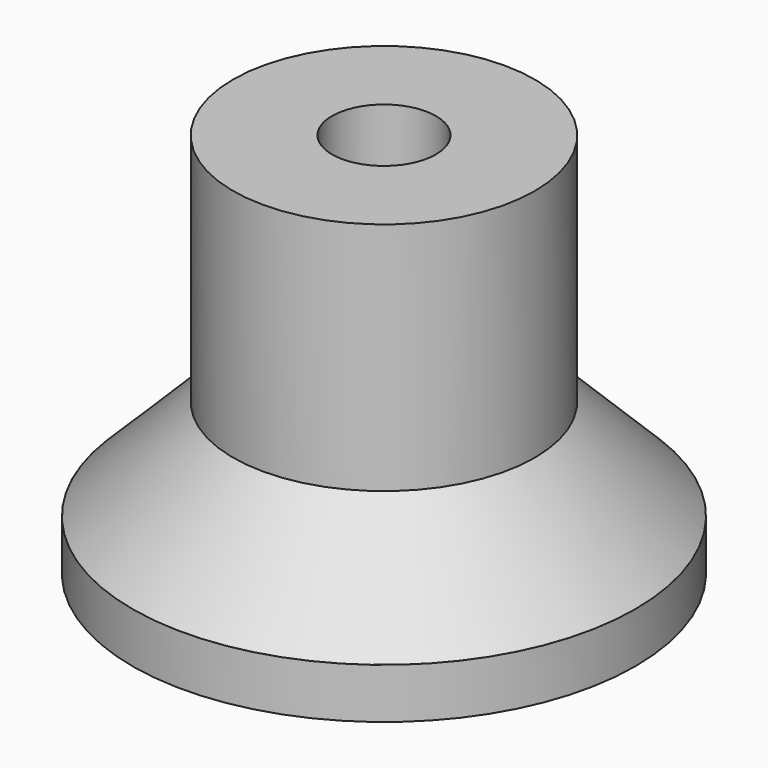
from build123d import *

# Parameters (mm, degrees)
SKETCH_R        = 7.5
PAD_DEPTH       = 1.5
SKETCH001_R     = 4.5
PAD001_DEPTH    = 10
POCKET_DEPTH    = 6
SKETCH003_R     = 1.55
POCKET001_DEPTH = 11.501
POCKET002_DEPTH = 4
CHAMFER_SIZE    = 2.999
SKETCH005_R     = 1.55
PAD002_DEPTH    = 0.3
CHAMFER001_SIZE = 0.495


with BuildPart() as part:
    # Sketch → Pad (new body)
    with BuildSketch(Plane.XY):
        Circle(SKETCH_R)
    extrude(amount=PAD_DEPTH)

    # Sketch001 → Pad001 (new body)
    with BuildSketch(Plane.XY.offset(1.5)):
        Circle(SKETCH001_R)
    extrude(amount=PAD001_DEPTH)

    # Sketch002 → Pocket (cut)
    with BuildSketch(Plane(origin=(0, 0, 0), x_dir=(1, 0, 0), z_dir=(0, 0, -1))):
        Polygon((2.525, 1.457809), (0, 2.915619), (-2.525, 1.457809), (-2.525, -1.457809), (0, -2.915619), (2.525, -1.457809), align=None)
    extrude(amount=-POCKET_DEPTH, mode=Mode.SUBTRACT)

    # Sketch003 → Pocket001 (cut, through all)
    with BuildSketch(Plane.XY.offset(11.5)):
        Circle(SKETCH003_R)
    extrude(amount=-POCKET001_DEPTH, mode=Mode.SUBTRACT)

    # Sketch004 → Pocket002 (cut)
    with BuildSketch(Plane(origin=(0, 0, 0), x_dir=(1, 0, 0), z_dir=(0, 0, -1))):
        Polygon((3.025, 1.746485), (0, 3.492969), (-3.025, 1.746485), (-3.025, -1.746485), (0, -3.492969), (3.025, -1.746485), align=None)
    extrude(amount=-POCKET002_DEPTH, mode=Mode.SUBTRACT)

    # Chamfer
    chamfer_edges = [part.edges().sort_by_distance(p)[0] for p in [
        (-4.5, 0, 1.5),
    ]]
    chamfer(chamfer_edges, length=CHAMFER_SIZE)

    # Sketch005 → Pad002 (new body)
    with BuildSketch(Plane(origin=(0, 0, 6), x_dir=(1, 0, 0), z_dir=(0, 0, -1))):
        Circle(SKETCH005_R)
    extrude(amount=-PAD002_DEPTH)

    # Chamfer001
    chamfer001_edges = [part.edges().sort_by_distance(p)[0] for p in [
        (3.025, 0, 4),
        (1.5125, -2.619727, 4),
        (1.5125, 2.619727, 4),
        (-1.5125, -2.619727, 4),
        (-3.025, 0, 4),
        (-1.5125, 2.619727, 4),
    ]]
    chamfer(chamfer001_edges, length=CHAMFER001_SIZE)


solid = part.part
